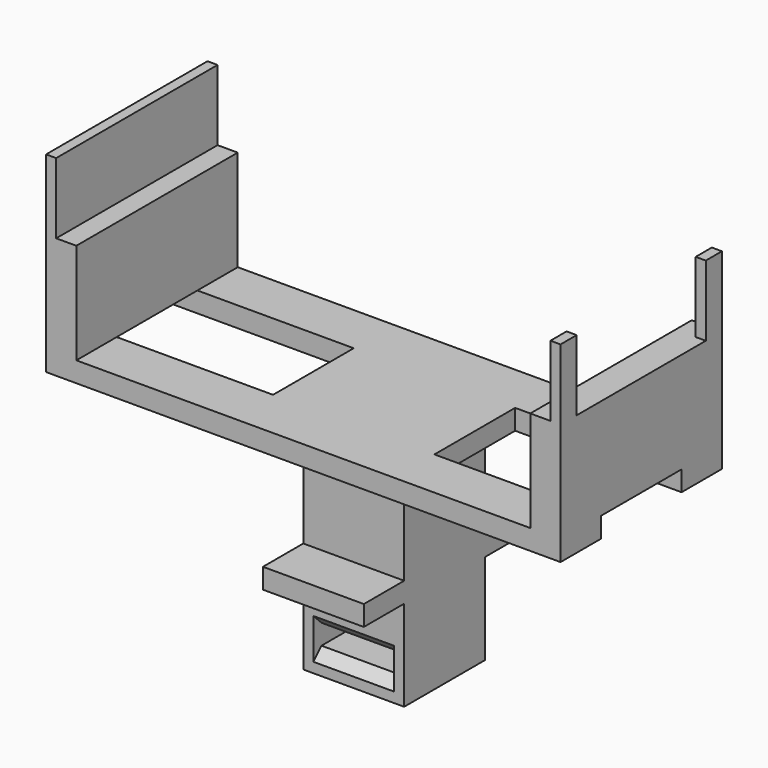
from build123d import *

# Parameters (mm, degrees)
SKETCH_W           = 49
SKETCH_H           = 20
PAD_DEPTH          = 2
SKETCH001_W        = 10
SKETCH001_H        = 10
PAD001_DEPTH       = 5
SKETCH002_W        = 13.5
SKETCH002_H        = 10
POCKET_DEPTH       = 5
SKETCH003_W        = 3
SKETCH003_H        = 20
PAD002_DEPTH       = 10
SKETCH004_W        = 1
SKETCH004_H        = 2
PAD003_DEPTH       = 2
PAD003_FACE1_W     = 20
PAD003_FACE1_H     = 2
PAD004_DEPTH       = 2
SKETCH005_W        = 3
SKETCH005_H        = 20
PAD005_DEPTH       = 10
SKETCH006_W        = 1
SKETCH006_H        = 20
PAD006_DEPTH       = 2
PAD006_FACE9_W     = 10
PAD006_FACE9_H     = 2
POCKET001_DEPTH    = 5
SKETCH007_W        = 10
SKETCH007_H        = 2
POCKET002_DEPTH    = 5
POCKET002_FACE22_W = 20
POCKET002_FACE22_H = 1
PAD007_DEPTH       = 5
PAD007_FACE13_W    = 2
PAD007_FACE13_H    = 1
PAD008_DEPTH       = 5
PAD008_FACE22_W    = 2
PAD008_FACE22_H    = 1
PAD009_DEPTH       = 5
PAD009_FACE26_W    = 10
PAD009_FACE26_H    = 10
PAD010_DEPTH       = 15
SKETCH009_W        = 10
SKETCH009_H        = 2
PAD011_DEPTH       = 5
PAD011_FACE29_W    = 10
PAD011_FACE29_H    = 10
PAD012_DEPTH       = 3
SKETCH010_W        = 8
SKETCH010_H        = 2
POCKET003_DEPTH    = 15.001
CHAMFER_SIZE       = 1
CHAMFER_FACE27_W   = 10
CHAMFER_FACE27_H   = 2
PAD013_DEPTH       = 20


with BuildPart() as part:
    # Sketch → Pad (new body)
    with BuildSketch(Plane.XY):
        with Locations((24.5, 10)):
            Rectangle(SKETCH_W, SKETCH_H)
    extrude(amount=PAD_DEPTH)

    # Sketch001 (on Face6 of Pad) → Pad001 (join)
    with BuildSketch(Plane.XY.offset(2)):
        with Locations((24.5, 10)):
            Rectangle(SKETCH001_W, SKETCH001_H)
    extrude(amount=-PAD001_DEPTH)

    # Sketch002 (on Face4 of Pad001) → Pocket (cut)
    with BuildSketch(Plane(origin=(0, 0, 0), x_dir=(1, 0, 0), z_dir=(0, 0, -1))):
        with Locations((39.25, -10)):
            Rectangle(SKETCH002_W, SKETCH002_H)
        with Locations((9.75, -10)):
            Rectangle(SKETCH002_W, SKETCH002_H)
    extrude(amount=-POCKET_DEPTH, mode=Mode.SUBTRACT)

    # Sketch003 (on Face5 of Pocket) → Pad002 (join)
    with BuildSketch(Plane.XY.offset(2)):
        with Locations((47.5, 10)):
            Rectangle(SKETCH003_W, SKETCH003_H)
    extrude(amount=PAD002_DEPTH)

    # Sketch004 (on Face17 of Pad002) → Pad003 (join)
    with BuildSketch(Plane.XY.offset(12)):
        with Locations((48.5, 19)):
            Rectangle(SKETCH004_W, SKETCH004_H)
        with Locations((48.5, 1)):
            Rectangle(SKETCH004_W, SKETCH004_H)
    extrude(amount=PAD003_DEPTH)

    # Pad003 Face1 → Pad004 (add)
    with BuildSketch(Plane(origin=(0, 10, 1), x_dir=(0, 1, 0), z_dir=(-1, 0, 0))):
        Rectangle(PAD003_FACE1_W, PAD003_FACE1_H)
    extrude(amount=PAD004_DEPTH)

    # Sketch005 (on Face26 of Pad004) → Pad005 (join)
    with BuildSketch(Plane.XY.offset(2)):
        with Locations((-0.5, 10)):
            Rectangle(SKETCH005_W, SKETCH005_H)
    extrude(amount=PAD005_DEPTH)

    # Sketch006 (on Face22 of Pad005) → Pad006 (join)
    with BuildSketch(Plane.XY.offset(12)):
        with Locations((-1.5, 10)):
            Rectangle(SKETCH006_W, SKETCH006_H)
    extrude(amount=PAD006_DEPTH)

    # Pad006 Face9 → Pocket001 (cut)
    with BuildSketch(Plane(origin=(3, 10, 1), x_dir=(0, -1, 0), z_dir=(1, 0, 0))):
        Rectangle(PAD006_FACE9_W, PAD006_FACE9_H)
    extrude(amount=-POCKET001_DEPTH, mode=Mode.SUBTRACT)

    # Sketch007 (on Face8 of Pocket001) → Pocket002 (cut)
    with BuildSketch(Plane(origin=(46, 0, 0), x_dir=(0, -1, 0), z_dir=(-1, 0, 0))):
        with Locations((-10, 1)):
            Rectangle(SKETCH007_W, SKETCH007_H)
    extrude(amount=-POCKET002_DEPTH, mode=Mode.SUBTRACT)

    # Pocket002 Face22 → Pad007 (add)
    with BuildSketch(Plane(origin=(-1.5, 10, 14), x_dir=(0, 1, 0), z_dir=(0, 0, 1))):
        Rectangle(POCKET002_FACE22_W, POCKET002_FACE22_H)
    extrude(amount=PAD007_DEPTH)

    # Pad007 Face13 → Pad008 (add)
    with BuildSketch(Plane(origin=(48.5, 1, 14), x_dir=(0, 1, 0), z_dir=(0, 0, 1))):
        Rectangle(PAD007_FACE13_W, PAD007_FACE13_H)
    extrude(amount=PAD008_DEPTH)

    # Pad008 Face22 → Pad009 (add)
    with BuildSketch(Plane(origin=(48.5, 19, 14), x_dir=(0, 1, 0), z_dir=(0, 0, 1))):
        Rectangle(PAD008_FACE22_W, PAD008_FACE22_H)
    extrude(amount=PAD009_DEPTH)

    # Pad009 Face26 → Pad010 (add)
    with BuildSketch(Plane(origin=(24.5, 10, -3), x_dir=(0, -1, 0), z_dir=(0, 0, -1))):
        Rectangle(PAD009_FACE26_W, PAD009_FACE26_H)
    extrude(amount=PAD010_DEPTH)

    # Sketch009 (on Face27 of Pad010) → Pad011 (join)
    with BuildSketch(Plane.XZ.offset(-5)):
        with Locations((24.5, -11)):
            Rectangle(SKETCH009_W, SKETCH009_H)
    extrude(amount=PAD011_DEPTH)

    # Pad011 Face29 → Pad012 (add)
    with BuildSketch(Plane(origin=(24.5, 10, -18), x_dir=(0, -1, 0), z_dir=(0, 0, -1))):
        Rectangle(PAD011_FACE29_W, PAD011_FACE29_H)
    extrude(amount=PAD012_DEPTH)

    # Sketch010 (on Face31 of Pad012) → Pocket003 (cut, through all)
    with BuildSketch(Plane.XZ.offset(-5)):
        with Locations((24.5, -18)):
            Rectangle(SKETCH010_W, SKETCH010_H)
    extrude(amount=-POCKET003_DEPTH, mode=Mode.SUBTRACT)

    # Chamfer
    chamfer_edges = [part.edges().sort_by_distance(p)[0] for p in [
        (24.5, 5, -17),
        (24.5, 5, -19),
        (24.5, 15, -17),
        (24.5, 15, -19),
    ]]
    chamfer(chamfer_edges, length=CHAMFER_SIZE)

    # Chamfer Face27 → Pad013 (add)
    with BuildSketch(Plane(origin=(24.5, 0, -11), x_dir=(-1, 0, 0), z_dir=(0, -1, 0))):
        Rectangle(CHAMFER_FACE27_W, CHAMFER_FACE27_H)
    extrude(amount=-PAD013_DEPTH)


solid = part.part
